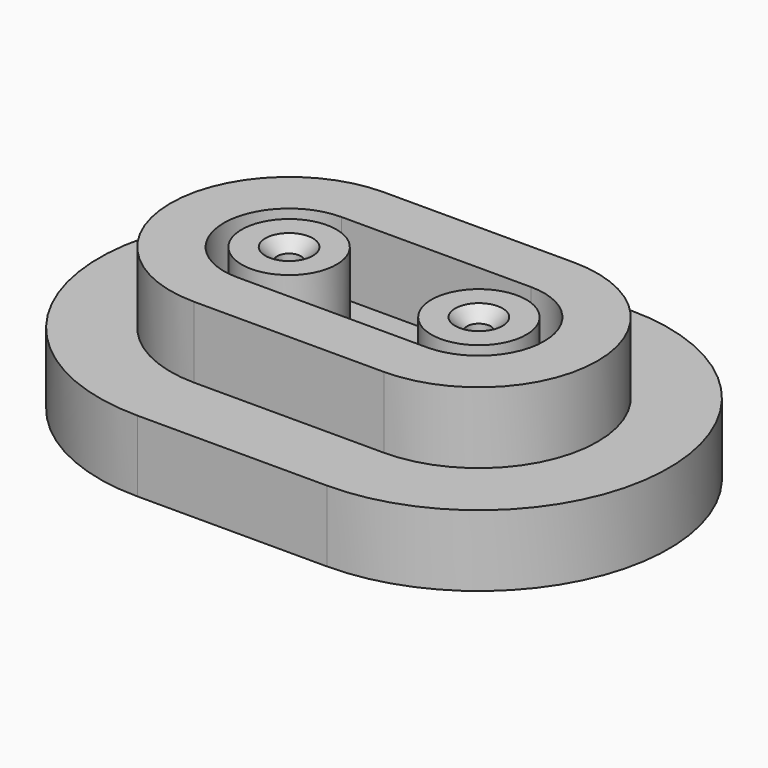
from build123d import *

# Parameters (mm, degrees)
F1_DEPTH = 76.2
F2_R     = 50.8
F2_R_2   = 25.4
F2_R_3   = 12.7
F3_DEPTH = 76.2
F4_SIZE  = 12.7
F6_DEPTH = 25.4
F7_DEPTH = 50.8


with BuildPart() as f1:
    # F0 (on Top) → F1 (new body)
    with BuildSketch(Plane.XY):
        with BuildLine():
            Line((203.2, 203.2), (0, 203.2))
            ThreePointArc((0, 203.2), (-203.2, 0), (0, -203.2))
            Line((0, -203.2), (203.2, -203.2))
            ThreePointArc((203.2, -203.2), (406.4, 0), (203.2, 203.2))
        make_face()
    extrude(amount=F1_DEPTH)

    # F2 (on face) → F3 (join)
    with BuildSketch(Plane.XY.offset(76.2)):
        with BuildLine():
            Line((0, -127), (203.2, -127))
            ThreePointArc((203.2, -127), (330.2, 0), (203.2, 127))
            Line((203.2, 127), (0, 127))
            ThreePointArc((0, 127), (-127, 0), (0, -127))
        make_face()
        with BuildLine():
            ThreePointArc((0, -69.85), (-69.85, 0), (0, 69.85))
            Line((0, 69.85), (203.2, 69.85))
            ThreePointArc((203.2, 69.85), (273.05, 0), (203.2, -69.85))
            Line((203.2, -69.85), (0, -69.85))
        make_face(mode=Mode.SUBTRACT)
        Circle(F2_R)
        Circle(F2_R_2, mode=Mode.SUBTRACT)
        with Locations((203.2, 0)):
            Circle(F2_R)
        with Locations((203.2, 0)):
            Circle(F2_R_2, mode=Mode.SUBTRACT)
        Circle(F2_R_2)
        Circle(F2_R_3, mode=Mode.SUBTRACT)
        with Locations((203.2, 0)):
            Circle(F2_R_2)
        with Locations((203.2, 0)):
            Circle(F2_R_3, mode=Mode.SUBTRACT)
    extrude(amount=F3_DEPTH)

    # F4
    f4_edges = [f1.edges().sort_by_distance(p)[0] for p in [
        (-12.7, 0, 152.4),
        (190.5, 0, 152.4),
    ]]
    chamfer(f4_edges, length=F4_SIZE)

    # F5 (on face) → F6 (cut)
    with BuildSketch(Plane(origin=(0, 0, 0), x_dir=(1, 0, 0), z_dir=(0, 0, -1))):
        with BuildLine():
            Line((203.2, 101.6), (0, 101.6))
            ThreePointArc((0, 101.6), (-101.6, 0), (0, -101.6))
            Line((0, -101.6), (203.2, -101.6))
            ThreePointArc((203.2, -101.6), (304.8, 0), (203.2, 101.6))
        make_face()
    extrude(amount=-F6_DEPTH, mode=Mode.SUBTRACT)

    # F7 (cut): faces of the model
    f7_faces = [f1.faces().sort_by_distance(p)[0] for p in [
        (0, 0, 76.2),
        (203.2, 0, 76.2),
    ]]
    extrude(f7_faces, amount=-F7_DEPTH, mode=Mode.SUBTRACT)


solid = f1.part
